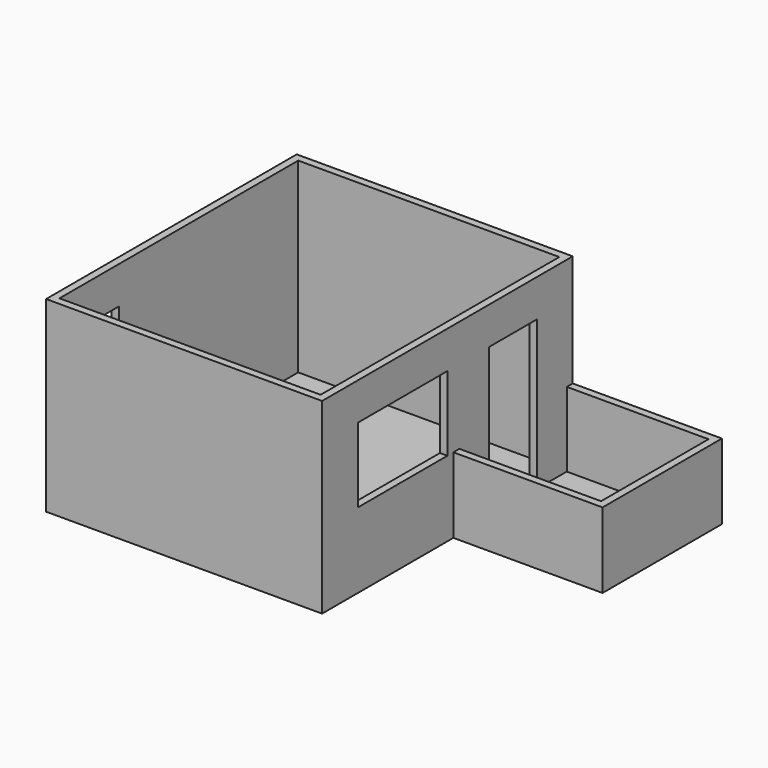
from build123d import *

# Parameters (mm, degrees)
F0_W      = 3700
F0_H      = 4200
F1_DEPTH  = 10
F2_W      = 3700
F2_H      = 4200
F2_W_2    = 3500
F2_H_2    = 4000
F3_DEPTH  = 2500
F4_W      = 800
F4_H      = 2000
F5_DEPTH  = 100
F6_W      = 800
F6_H      = 2000
F7_DEPTH  = 100
F8_W      = 2000
F8_H      = 2000
F9_DEPTH  = 10
F11_DEPTH = 1000
F12_W     = 1500
F12_H     = 1000
F13_DEPTH = 100


with BuildPart() as f1:
    # F0 (on Top) → F1 (new body)
    with BuildSketch(Plane.XY):
        with Locations((1750, 2000)):
            Rectangle(F0_W, F0_H)
    extrude(amount=-F1_DEPTH)

    # F2 (on face) → F3 (join)
    with BuildSketch(Plane.XY):
        with Locations((1750, 2000)):
            Rectangle(F2_W, F2_H)
        with Locations((1750, 2000)):
            Rectangle(F2_W_2, F2_H_2, mode=Mode.SUBTRACT)
    extrude(amount=F3_DEPTH)

    # F4 (on face) → F5 (cut, through all)
    with BuildSketch(Plane.YZ):
        with Locations((600, 1000)):
            Rectangle(F4_W, F4_H)
    extrude(amount=-F5_DEPTH, mode=Mode.SUBTRACT)

    # F6 (on face) → F7 (cut, through all)
    with BuildSketch(Plane(origin=(3500, 0, 0), x_dir=(0, -1, 0), z_dir=(-1, 0, 0))):
        with Locations((-3100, 1000)):
            Rectangle(F6_W, F6_H)
    extrude(amount=-F7_DEPTH, mode=Mode.SUBTRACT)

    # F8 (on face) → F9 (join, through all)
    with BuildSketch(Plane(origin=(0, 0, -10), x_dir=(1, 0, 0), z_dir=(0, 0, -1))):
        with Locations((4600, -3100)):
            Rectangle(F8_W, F8_H)
    extrude(amount=-F9_DEPTH)

    # F10 (on face) → F11 (join)
    with BuildSketch(Plane.XY):
        Polygon((5600, 4100), (3600, 4100), (3600, 4000), (5500, 4000), (5500, 2200), (3600, 2200), (3600, 2100), (5600, 2100), align=None)
    extrude(amount=F11_DEPTH)

    # F12 (on face) → F13 (cut, through all)
    with BuildSketch(Plane(origin=(3500, 0, 0), x_dir=(0, -1, 0), z_dir=(-1, 0, 0))):
        with Locations((-1250, 1500)):
            Rectangle(F12_W, F12_H)
    extrude(amount=-F13_DEPTH, mode=Mode.SUBTRACT)


solid = f1.part
